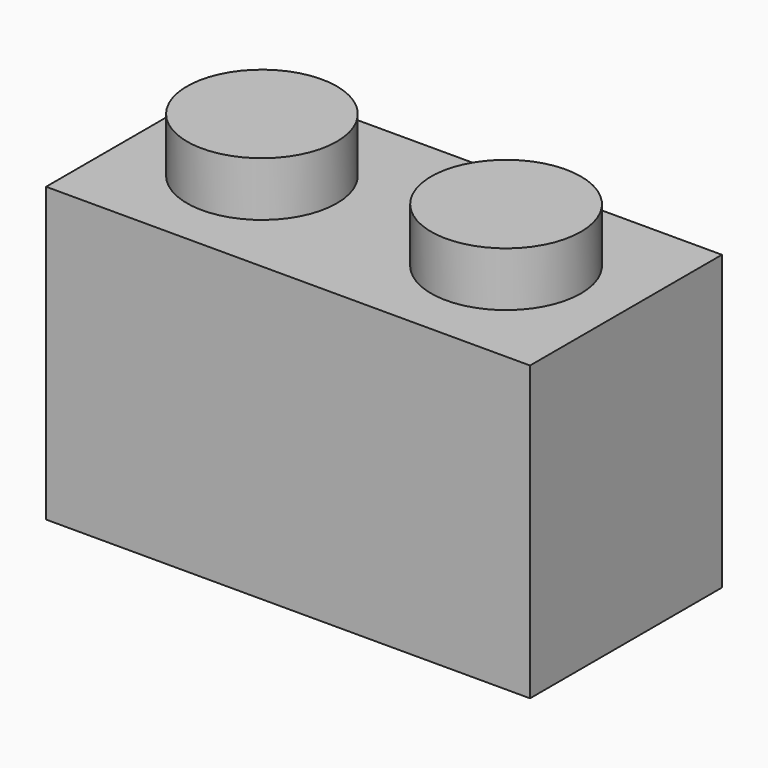
from build123d import *

# Parameters (mm, degrees)
F0_W     = 15.8369
F0_H     = 7.8486
F1_DEPTH = 9.5885
F2_R     = 2.4511
F4_DEPTH = 1.778
F3_R     = 2.4511
F5_DEPTH = 1.778
F6_W     = 14.351
F6_H     = 6.35
F8_DEPTH = 8.3312
F7_R     = 1.4859
F9_DEPTH = 8.3312


with BuildPart() as f1:
    # F0 (on Top) → F1 (new body)
    with BuildSketch(Plane.XY):
        Rectangle(F0_W, F0_H)
    extrude(amount=F1_DEPTH)

    # F2 (on face) → F4 (join)
    with BuildSketch(Plane.XY.offset(9.5885)):
        with Locations((-3.99415, 0)):
            Circle(F2_R)
    extrude(amount=F4_DEPTH)

    # F3 (on face) → F5 (join)
    with BuildSketch(Plane.XY.offset(9.5885)):
        with Locations((3.99415, 0)):
            Circle(F3_R)
    extrude(amount=F5_DEPTH)

    # F6 (on face) → F8 (cut)
    with BuildSketch(Plane(origin=(0, 0, 0), x_dir=(1, 0, 0), z_dir=(0, 0, -1))):
        Rectangle(F6_W, F6_H)
    extrude(amount=-F8_DEPTH, mode=Mode.SUBTRACT)

    # F7 (on face) → F9 (join)
    with BuildSketch(Plane(origin=(0, 0, 0), x_dir=(1, 0, 0), z_dir=(0, 0, -1))):
        Circle(F7_R)
    extrude(amount=-F9_DEPTH)


solid = f1.part
